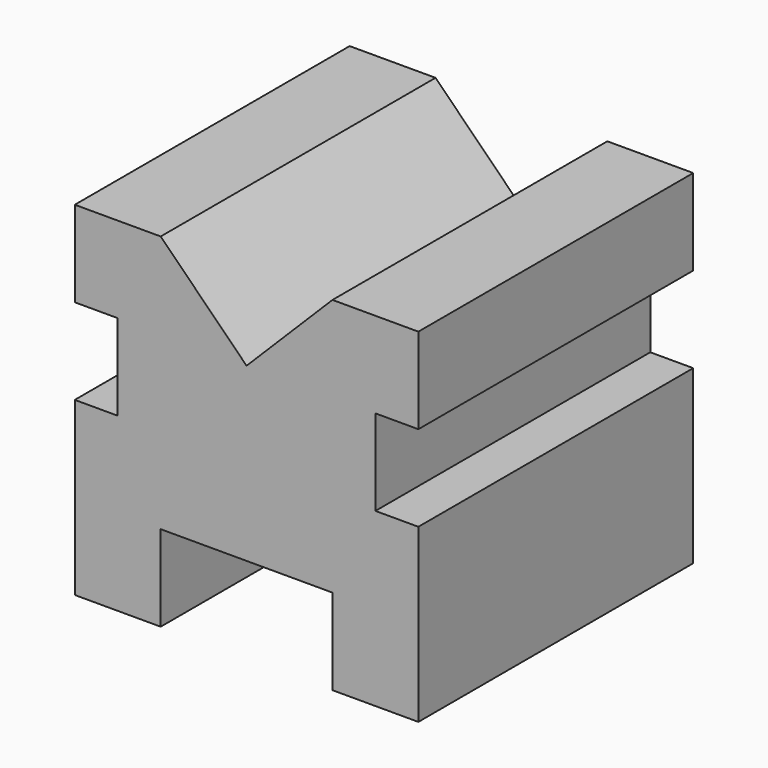
from build123d import *

# Parameters (mm, degrees)
F0_W     = 25.4
F0_H     = 25.4
F1_DEPTH = 101.6


with BuildPart() as f1:
    # F0 (on Front) → F1 (new body)
    with BuildSketch(Plane.XZ):
        Polygon((-12.7, 76.2), (-50.8, 76.2), (-88.9, 76.2), (-88.9, 50.8), (-101.6, 50.8), (-101.6, 25.4), (-76.2, 25.4), (-25.4, 25.4), (-25.4, 0), (0, 0), (0, 50.8), (-12.7, 50.8), align=None)
        with Locations((-88.9, 12.7)):
            Rectangle(F0_W, F0_H)
        Polygon((-88.9, 76.2), (-50.8, 76.2), (-76.2, 101.6), (-101.6, 101.6), (-101.6, 76.2), align=None)
        Polygon((0, 76.2), (0, 101.6), (-25.4, 101.6), (-50.8, 76.2), (-12.7, 76.2), align=None)
    extrude(amount=F1_DEPTH)


solid = f1.part
